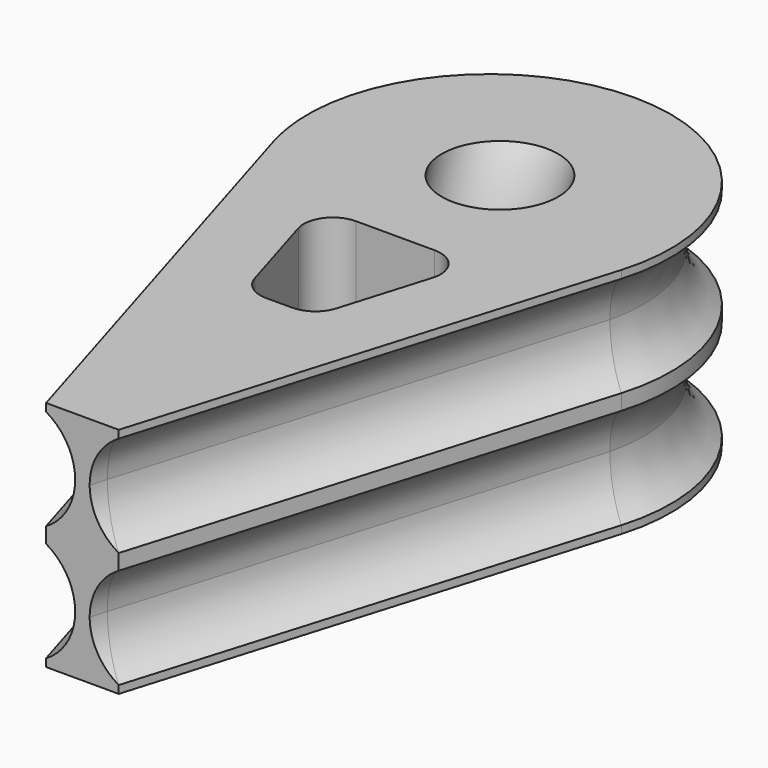
from build123d import *

# Parameters (mm, degrees)
F1_DEPTH  = 4
F8_R      = 4
F11_DEPTH = 16
F12_R     = 2


with BuildPart() as f1:
    # F0 (on Top) → F1 (new body)
    with BuildSketch(Plane.XY):
        with BuildLine():
            Line((2.5, -35), (11.9675303731, -3.6094621162))
            ThreePointArc((11.9675303731, -3.6094621162), (0, 12.5), (-11.9675303731, -3.6094621162))
            Line((-11.9675303731, -3.6094621162), (-2.5, -35))
            Line((-2.5, -35), (2.5, -35))
        make_face()
    extrude(amount=F1_DEPTH)

    # F4: sweep along a path in F4_path
    with BuildLine(Plane(origin=(-11.9675303731, -3.6094621162, 4), x_dir=(0, 1, 0), z_dir=(0, 0, 1))) as f4_path:
        Line((-31.3905378838, -9.4675303731), (0, 0))
        ThreePointArc((0, 0), (16.1094621162, -11.9675303731), (0, -23.9350607463))
        Line((0, -23.9350607463), (-31.3905378838, -14.4675303731))
        Line((-31.3905378838, -14.4675303731), (-38.5466098599, -12.309226204))
    # F3 (on face) → F4 (sweep, cut)
    with BuildSketch(Plane.XZ.offset(35)):
        with BuildLine():
            ThreePointArc((-2.5, 0.5358983849), (-1.0358983849, 2), (-0.5, 4))
            Line((-0.5, 4), (-2.5, 4))
            Line((-2.5, 4), (-2.5, 0.5358983849))
        make_face()
    sweep(path=f4_path.line, mode=Mode.SUBTRACT)

    # F5: F1 across face


with BuildPart() as f1_1:
    add(f1.part)
    add(f1.part.mirror(Plane(origin=(-0.0002119215, -7.1160026753, 4), x_dir=(1, 0, 0), z_dir=(0, 0, 1))))

    # F6: F1 across face


with BuildPart() as f1_2:
    add(f1_1.part)
    add(f1_1.part.mirror(Plane(origin=(0, -7.6972152999, 0), x_dir=(1, 0, 0), z_dir=(0, 0, -1))))

    # F9: sweep along a path in F7
    with BuildLine(Plane.YZ) as f9_path:
        CenterArc((20, 0), 20, 0, 360)
    # F8 (on face) → F9 (sweep, cut)
    with BuildSketch(Plane(origin=(0, 0, -8), x_dir=(1, 0, 0), z_dir=(0, 0, -1))):
        with Locations((0, -0.9167455137)):
            Circle(F8_R)
    sweep(path=f9_path.line, mode=Mode.SUBTRACT)

    # F10 (on face) → F11 (cut, through all)
    with BuildSketch(Plane(origin=(0, 0, -8), x_dir=(1, 0, 0), z_dir=(0, 0, -1))):
        Polygon((5.3957497615, 8.0832544863), (2.3797038408, 18.0832544863), (-2.3797038408, 18.0832544863), (-5.3957497615, 8.0832544863), align=None)
    extrude(amount=-F11_DEPTH, mode=Mode.SUBTRACT)

    # F12
    f12_edges = [f1_2.edges().sort_by_distance(p)[0] for p in [
        (-5.39575, -8.083254, 0),
        (5.39575, -8.083254, 0),
        (-2.379704, -18.083254, 0),
        (2.379704, -18.083254, 0),
    ]]
    fillet(f12_edges, radius=F12_R)


solid = f1_2.part
